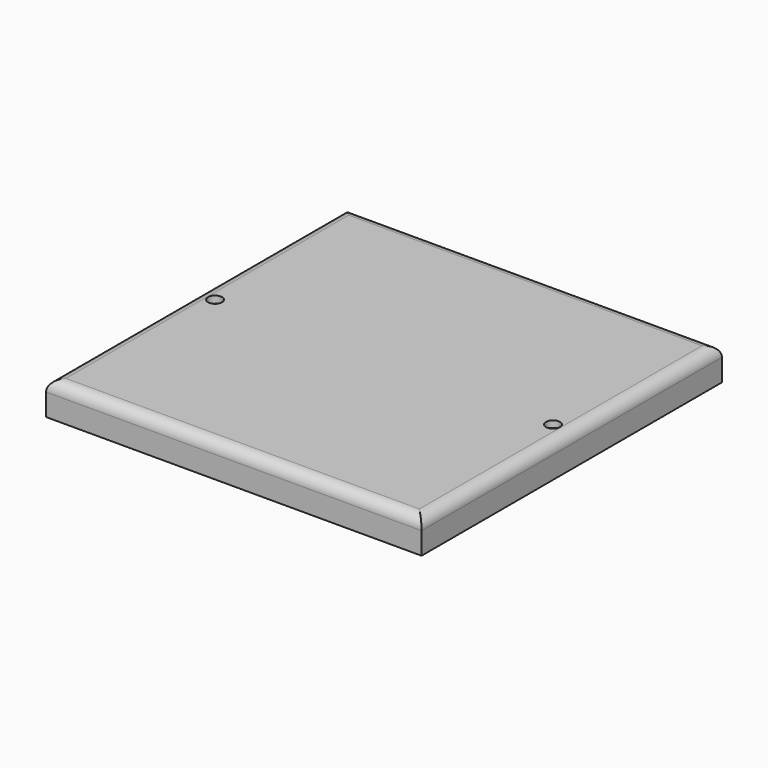
from build123d import *

# Parameters (mm, degrees)
F0_W     = 107.95
F0_H     = 107.95
F1_DEPTH = 9.525
F2_W     = 104.15524
F2_H     = 104.15524
F3_DEPTH = 7.62762
F4_R     = 3.175
F6_D     = 4.0386
F6_DEPTH = 8.89
F6_TIP   = 1.213317848


with BuildPart() as f1:
    # F0 (on Top) → F1 (new body)
    with BuildSketch(Plane.XY):
        Rectangle(F0_W, F0_H)
    extrude(amount=F1_DEPTH)

    # F2 (on face) → F3 (cut)
    with BuildSketch(Plane(origin=(0, 0, 0), x_dir=(1, 0, 0), z_dir=(0, 0, -1))):
        Rectangle(F2_W, F2_H)
    extrude(amount=-F3_DEPTH, mode=Mode.SUBTRACT)

    # F4
    f4_edges = [f1.edges().sort_by_distance(p)[0] for p in [
        (0, -52.07762, 7.62762),
        (-52.07762, 0, 7.62762),
        (0, 52.07762, 7.62762),
        (52.07762, 0, 7.62762),
        (0, 53.975, 9.525),
        (-53.975, 0, 9.525),
        (0, -53.975, 9.525),
        (53.975, 0, 9.525),
    ]]
    fillet(f4_edges, radius=F4_R)

    # F6
    with Locations(Plane.XY.offset(9.525)):
        with Locations((-48.5775, 0), (48.5775, 0)):
            Hole(F6_D / 2, depth=F6_DEPTH)
            with Locations((0, 0, -(F6_DEPTH + F6_TIP / 2))):  # 118° drill point
                Cone(0, F6_D / 2, F6_TIP, mode=Mode.SUBTRACT)


solid = f1.part
